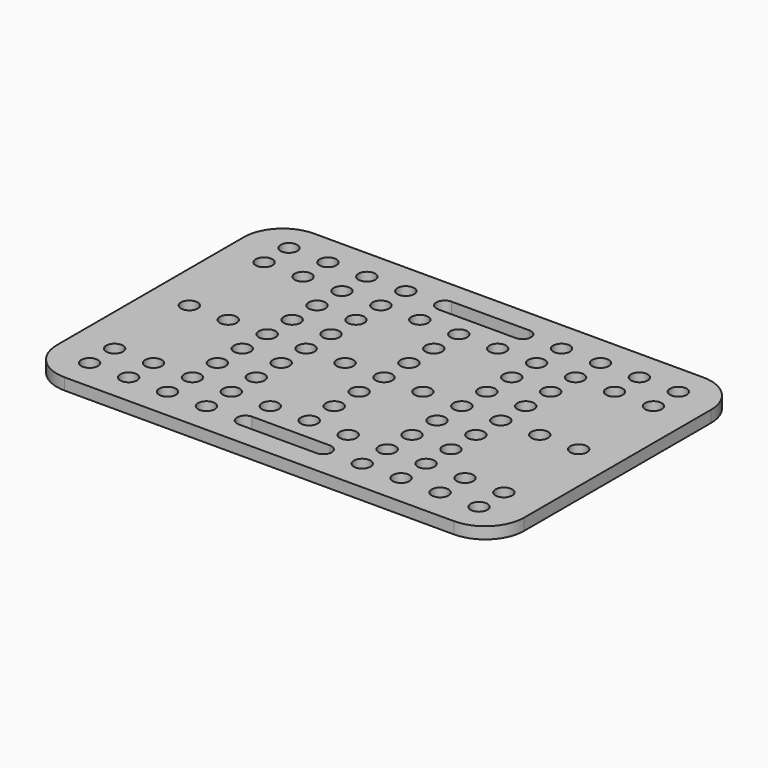
from build123d import *

# Parameters (mm, degrees)
F0_R     = 2.15
F1_DEPTH = 3


with BuildPart() as f1:
    # F0 (on Top) → F1 (new body)
    with BuildSketch(Plane.XY):
        with BuildLine():
            Line((-50, -40), (50, -40))
            ThreePointArc((50, -40), (57.071068, -37.071068), (60, -30))
            Line((60, -30), (60, 30))
            ThreePointArc((60, 30), (57.071068, 37.071068), (50, 40))
            Line((50, 40), (-50, 40))
            ThreePointArc((-50, 40), (-57.071068, 37.071068), (-60, 30))
            Line((-60, 30), (-60, -30))
            ThreePointArc((-60, -30), (-57.071068, -37.071068), (-50, -40))
        make_face()
        with Locations((-50, -32)):
            Circle(F0_R, mode=Mode.SUBTRACT)
        with Locations((-40, -32)):
            Circle(F0_R, mode=Mode.SUBTRACT)
        with Locations((-50, -24)):
            Circle(F0_R, mode=Mode.SUBTRACT)
        with Locations((-40, -24)):
            Circle(F0_R, mode=Mode.SUBTRACT)
        with Locations((-30, -32)):
            Circle(F0_R, mode=Mode.SUBTRACT)
        with Locations((-20, -32)):
            Circle(F0_R, mode=Mode.SUBTRACT)
        with Locations((-30, -24)):
            Circle(F0_R, mode=Mode.SUBTRACT)
        with Locations((-20, -24)):
            Circle(F0_R, mode=Mode.SUBTRACT)
        with Locations((-10, -24)):
            Circle(F0_R, mode=Mode.SUBTRACT)
        with Locations((-30, -16)):
            Circle(F0_R, mode=Mode.SUBTRACT)
        with Locations((-20, -16)):
            Circle(F0_R, mode=Mode.SUBTRACT)
        with Locations((-30, -8)):
            Circle(F0_R, mode=Mode.SUBTRACT)
        with Locations((-20, -8)):
            Circle(F0_R, mode=Mode.SUBTRACT)
        with BuildLine():
            Line((10, -34.15), (0, -34.15))
            Line((0, -34.15), (-10, -34.15))
            ThreePointArc((-10, -34.15), (-12.15, -32), (-10, -29.85))
            Line((-10, -29.85), (0, -29.85))
            Line((0, -29.85), (10, -29.85))
            ThreePointArc((10, -29.85), (11.52028, -30.47972), (12.15, -32))
            ThreePointArc((12.15, -32), (11.52028, -33.52028), (10, -34.15))
        make_face(mode=Mode.SUBTRACT)
        with Locations((20, -32)):
            Circle(F0_R, mode=Mode.SUBTRACT)
        with Locations((0, -24)):
            Circle(F0_R, mode=Mode.SUBTRACT)
        with Locations((10, -24)):
            Circle(F0_R, mode=Mode.SUBTRACT)
        with Locations((20, -24)):
            Circle(F0_R, mode=Mode.SUBTRACT)
        with Locations((30, -32)):
            Circle(F0_R, mode=Mode.SUBTRACT)
        with Locations((40, -32)):
            Circle(F0_R, mode=Mode.SUBTRACT)
        with Locations((50, -32)):
            Circle(F0_R, mode=Mode.SUBTRACT)
        with Locations((30, -24)):
            Circle(F0_R, mode=Mode.SUBTRACT)
        with Locations((40, -24)):
            Circle(F0_R, mode=Mode.SUBTRACT)
        with Locations((50, -24)):
            Circle(F0_R, mode=Mode.SUBTRACT)
        with Locations((0, -16)):
            Circle(F0_R, mode=Mode.SUBTRACT)
        with Locations((20, -16)):
            Circle(F0_R, mode=Mode.SUBTRACT)
        with Locations((0, -8)):
            Circle(F0_R, mode=Mode.SUBTRACT)
        with Locations((20, -8)):
            Circle(F0_R, mode=Mode.SUBTRACT)
        with Locations((30, -16)):
            Circle(F0_R, mode=Mode.SUBTRACT)
        with Locations((30, -8)):
            Circle(F0_R, mode=Mode.SUBTRACT)
        with Locations((-50, 0)):
            Circle(F0_R, mode=Mode.SUBTRACT)
        with Locations((-40, 0)):
            Circle(F0_R, mode=Mode.SUBTRACT)
        with Locations((-30, 0)):
            Circle(F0_R, mode=Mode.SUBTRACT)
        with Locations((-20, 0)):
            Circle(F0_R, mode=Mode.SUBTRACT)
        with Locations((-30, 8)):
            Circle(F0_R, mode=Mode.SUBTRACT)
        with Locations((-20, 8)):
            Circle(F0_R, mode=Mode.SUBTRACT)
        with Locations((-10, 0)):
            Circle(F0_R, mode=Mode.SUBTRACT)
        with Locations((-30, 16)):
            Circle(F0_R, mode=Mode.SUBTRACT)
        with Locations((-20, 16)):
            Circle(F0_R, mode=Mode.SUBTRACT)
        with Locations((-50, 24)):
            Circle(F0_R, mode=Mode.SUBTRACT)
        with Locations((-40, 24)):
            Circle(F0_R, mode=Mode.SUBTRACT)
        with Locations((-50, 32)):
            Circle(F0_R, mode=Mode.SUBTRACT)
        with Locations((-40, 32)):
            Circle(F0_R, mode=Mode.SUBTRACT)
        with Locations((-30, 24)):
            Circle(F0_R, mode=Mode.SUBTRACT)
        with Locations((-20, 24)):
            Circle(F0_R, mode=Mode.SUBTRACT)
        with Locations((-10, 24)):
            Circle(F0_R, mode=Mode.SUBTRACT)
        with Locations((-30, 32)):
            Circle(F0_R, mode=Mode.SUBTRACT)
        with Locations((-20, 32)):
            Circle(F0_R, mode=Mode.SUBTRACT)
        Circle(F0_R, mode=Mode.SUBTRACT)
        with Locations((10, 0)):
            Circle(F0_R, mode=Mode.SUBTRACT)
        with Locations((0, 8)):
            Circle(F0_R, mode=Mode.SUBTRACT)
        with Locations((20, 0)):
            Circle(F0_R, mode=Mode.SUBTRACT)
        with Locations((20, 8)):
            Circle(F0_R, mode=Mode.SUBTRACT)
        with Locations((0, 16)):
            Circle(F0_R, mode=Mode.SUBTRACT)
        with Locations((20, 16)):
            Circle(F0_R, mode=Mode.SUBTRACT)
        with Locations((30, 0)):
            Circle(F0_R, mode=Mode.SUBTRACT)
        with Locations((40, 0)):
            Circle(F0_R, mode=Mode.SUBTRACT)
        with Locations((30, 8)):
            Circle(F0_R, mode=Mode.SUBTRACT)
        with Locations((50, 0)):
            Circle(F0_R, mode=Mode.SUBTRACT)
        with Locations((30, 16)):
            Circle(F0_R, mode=Mode.SUBTRACT)
        with Locations((0, 24)):
            Circle(F0_R, mode=Mode.SUBTRACT)
        with Locations((10, 24)):
            Circle(F0_R, mode=Mode.SUBTRACT)
        with Locations((20, 24)):
            Circle(F0_R, mode=Mode.SUBTRACT)
        with BuildLine():
            Line((-10, 34.15), (0, 34.15))
            Line((0, 34.15), (10, 34.15))
            ThreePointArc((10, 34.15), (11.52028, 33.52028), (12.15, 32))
            ThreePointArc((12.15, 32), (11.52028, 30.47972), (10, 29.85))
            Line((10, 29.85), (0, 29.85))
            Line((0, 29.85), (-10, 29.85))
            ThreePointArc((-10, 29.85), (-12.15, 32), (-10, 34.15))
        make_face(mode=Mode.SUBTRACT)
        with Locations((20, 32)):
            Circle(F0_R, mode=Mode.SUBTRACT)
        with Locations((30, 24)):
            Circle(F0_R, mode=Mode.SUBTRACT)
        with Locations((40, 24)):
            Circle(F0_R, mode=Mode.SUBTRACT)
        with Locations((50, 24)):
            Circle(F0_R, mode=Mode.SUBTRACT)
        with Locations((30, 32)):
            Circle(F0_R, mode=Mode.SUBTRACT)
        with Locations((40, 32)):
            Circle(F0_R, mode=Mode.SUBTRACT)
        with Locations((50, 32)):
            Circle(F0_R, mode=Mode.SUBTRACT)
    extrude(amount=F1_DEPTH)


solid = f1.part
